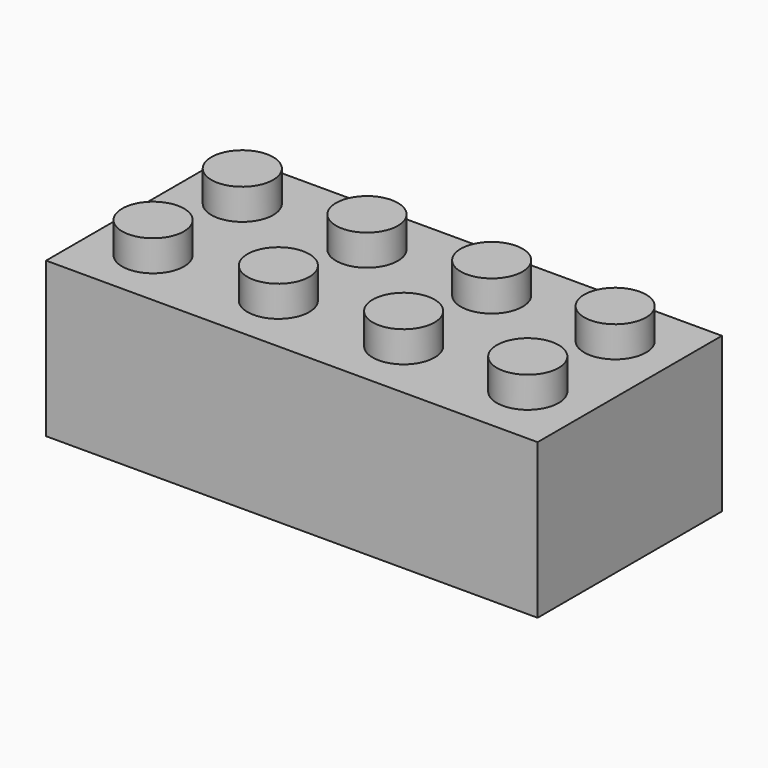
from build123d import *

# Parameters (mm, degrees)
F0_W     = 31.79
F0_H     = 10
F1_DEPTH = 14.9
F2_W     = 28.787708
F2_H     = 12.56
F3_DEPTH = 8.5
F4_R     = 2
F5_DEPTH = 2
F6_R     = 3.25
F7_DEPTH = 8.5
F8_R     = 2.8
F9_DEPTH = 8.5


with BuildPart() as f1:
    # F0 (on Front) → F1 (new body)
    with BuildSketch(Plane.XZ):
        with Locations((-0.331146, 0)):
            Rectangle(F0_W, F0_H)
    extrude(amount=F1_DEPTH)

    # F2 (on face) → F3 (cut)
    with BuildSketch(Plane(origin=(0, 0, -5), x_dir=(1, 0, 0), z_dir=(0, 0, -1))):
        with Locations((0, 7.45)):
            Rectangle(F2_W, F2_H)
    extrude(amount=-F3_DEPTH, mode=Mode.SUBTRACT)

    # F4 (on face) → F5 (join)
    with BuildSketch(Plane.XY.offset(5)):
        with Locations((-12.381146, -3.845)):
            Circle(F4_R)
        with Locations((-4.331169, -3.825617)):
            Circle(F4_R)
        with Locations((3.718807, -3.806234)):
            Circle(F4_R)
        with Locations((11.718854, -3.824759)):
            Circle(F4_R)
        with Locations((-12.381146, -11.055)):
            Circle(F4_R)
        with Locations((-4.331169, -10.990121)):
            Circle(F4_R)
        with Locations((3.718807, -10.925242)):
            Circle(F4_R)
        with Locations((11.718854, -10.890886)):
            Circle(F4_R)
    extrude(amount=F5_DEPTH)

    # F6 (on face) → F7 (join)
    with BuildSketch(Plane(origin=(0, 0, 3.5), x_dir=(1, 0, 0), z_dir=(0, 0, -1))):
        with Locations((-0.017932, 6.96)):
            Circle(F6_R)
        with Locations((-7.847932, 6.96)):
            Circle(F6_R)
        with Locations((7.812068, 6.96)):
            Circle(F6_R)
    extrude(amount=F7_DEPTH)

    # F8 (on face) → F9 (cut)
    with BuildSketch(Plane(origin=(0, 0, -5), x_dir=(1, 0, 0), z_dir=(0, 0, -1))):
        with Locations((-7.847932, 6.96)):
            Circle(F8_R)
        with Locations((0, 6.96)):
            Circle(F8_R)
        with Locations((7.812068, 6.96)):
            Circle(F8_R)
    extrude(amount=-F9_DEPTH, mode=Mode.SUBTRACT)


solid = f1.part
